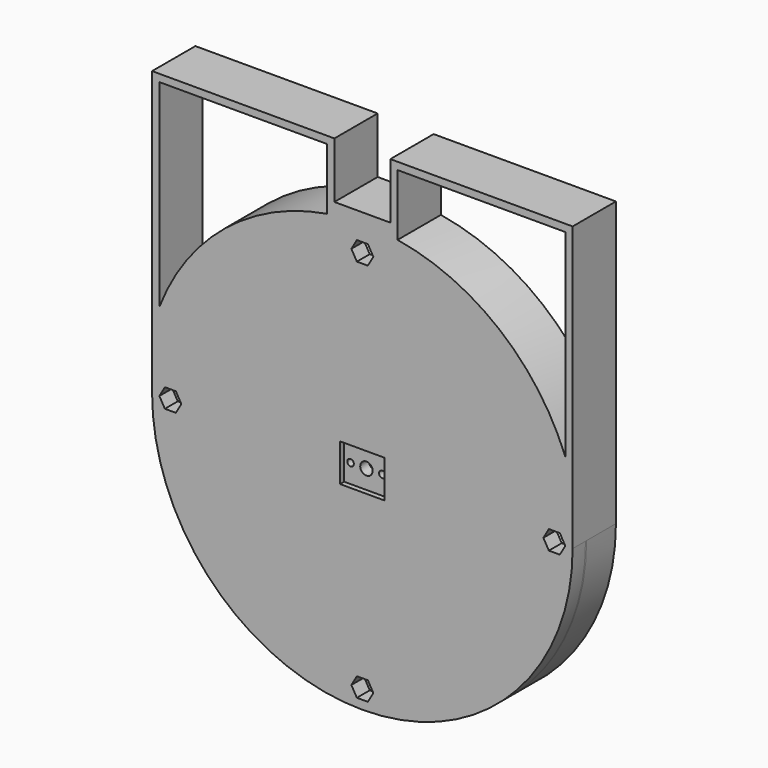
from build123d import *

# Parameters (mm, degrees)
SKETCH042_R     = 57.5
SKETCH042_R_2   = 50.2
PAD009_DEPTH    = 10
SKETCH043_R     = 57.5
SKETCH043_R_2   = 52.7
PAD010_DEPTH    = 10
SKETCH044_R     = 55.2
SKETCH044_R_2   = 45.630592
POCKET021_DEPTH = 10.001
SKETCH045_R     = 55.2
SKETCH045_R_2   = 52.7
PAD011_DEPTH    = 2.6
SKETCH046_R     = 57.5
SKETCH046_R_2   = 52.7
PAD012_DEPTH    = 0.4
SKETCH047_R     = 1.75
POCKET022_DEPTH = 5
SKETCH048_R     = 57.5
PAD013_DEPTH    = 4.4
SKETCH049_W     = 12.18
SKETCH049_H     = 10.29
POCKET023_DEPTH = 1.4
SKETCH050_R     = 1.7
POCKET024_DEPTH = 14.801
SKETCH051_R     = 0.9
POCKET025_DEPTH = 14.801
SKETCH052_R     = 1.55
POCKET026_DEPTH = 1
PAD014_DEPTH    = 14.8


with BuildPart() as part:
    # Sketch042 (on DatumPlane) → Pad009 (new body)
    with BuildSketch(Plane.XZ.offset(10)):
        Circle(SKETCH042_R)
        Circle(SKETCH042_R_2, mode=Mode.SUBTRACT)
    extrude(amount=-PAD009_DEPTH)

    # Sketch043 (on DatumPlane) → Pad010 (new body)
    with BuildSketch(Plane.XZ.offset(10)):
        Circle(SKETCH043_R)
        Circle(SKETCH043_R_2, mode=Mode.SUBTRACT)
    extrude(amount=-PAD010_DEPTH)

    # Sketch044 (on Face4 of PolarPattern004) → Pocket021 (cut, through all)
    with BuildSketch(Plane.XZ.offset(10)):
        Circle(SKETCH044_R)
        Circle(SKETCH044_R_2, mode=Mode.SUBTRACT)
    extrude(amount=-POCKET021_DEPTH, mode=Mode.SUBTRACT)

    # Sketch045 (on Face2 of Pocket021) → Pad011 (new body)
    with BuildSketch(Plane.XZ.offset(10)):
        Circle(SKETCH045_R)
        Circle(SKETCH045_R_2, mode=Mode.SUBTRACT)
    extrude(amount=-PAD011_DEPTH)

    # Sketch046 (on Face6 of Pad011) → Pad012 (new body)
    with BuildSketch(Plane.XZ.offset(10)):
        Circle(SKETCH046_R)
        Circle(SKETCH046_R_2, mode=Mode.SUBTRACT)
    extrude(amount=PAD012_DEPTH)

    # Sketch047 (on Face5 of Pad012) → Pocket022 (cut)
    with BuildSketch(Plane.XZ.offset(10.4)):
        with Locations((0, -52.5)):
            Circle(SKETCH047_R)
        with Locations((-52.5, 0)):
            Circle(SKETCH047_R)
        with Locations((0, 52.5)):
            Circle(SKETCH047_R)
        with Locations((52.5, 0)):
            Circle(SKETCH047_R)
    extrude(amount=-POCKET022_DEPTH, mode=Mode.SUBTRACT)

    # Sketch048 (on Face4 of Pocket022) → Pad013 (new body)
    with BuildSketch(Plane.XZ.offset(10.4)):
        Circle(SKETCH048_R)
        Polygon((3, -52.5), (1.5, -49.901924), (-1.5, -49.901924), (-3, -52.5), (-1.5, -55.098076), (1.5, -55.098076), align=None, mode=Mode.SUBTRACT)
        Polygon((3, 52.5), (1.5, 55.098076), (-1.5, 55.098076), (-3, 52.5), (-1.5, 49.901924), (1.5, 49.901924), align=None, mode=Mode.SUBTRACT)
        Polygon((-49.5, 0), (-51, 2.598076), (-54, 2.598076), (-55.5, 0), (-54, -2.598076), (-51, -2.598076), align=None, mode=Mode.SUBTRACT)
        Polygon((55.5, 0), (54, 2.598076), (51, 2.598076), (49.5, 0), (51, -2.598076), (54, -2.598076), align=None, mode=Mode.SUBTRACT)
    extrude(amount=PAD013_DEPTH)

    # Sketch049 (on Face13 of Pad013) → Pocket023 (cut)
    with BuildSketch(Plane.XZ.offset(14.8)):
        Rectangle(SKETCH049_W, SKETCH049_H)
    extrude(amount=-POCKET023_DEPTH, mode=Mode.SUBTRACT)

    # Sketch050 (on Face4 of Pocket023) → Pocket024 (cut, through all)
    with BuildSketch(Plane.XZ.offset(14.8)):
        Circle(SKETCH050_R)
    extrude(amount=-POCKET024_DEPTH, mode=Mode.SUBTRACT)

    # Sketch051 (on Face4 of Pocket024) → Pocket025 (cut, through all)
    with BuildSketch(Plane.XZ.offset(14.8)):
        with Locations((-4.35, 0)):
            Circle(SKETCH051_R)
        with Locations((4.35, 0)):
            Circle(SKETCH051_R)
    extrude(amount=-POCKET025_DEPTH, mode=Mode.SUBTRACT)

    # Sketch052 (on Face42 of Pocket025) → Pocket026 (cut)
    with BuildSketch(Plane(origin=(0, -10.4, 0), x_dir=(1, 0, 0), z_dir=(0, 1, 0))):
        with Locations((-4.35, 0)):
            Circle(SKETCH052_R)
        with Locations((4.35, 0)):
            Circle(SKETCH052_R)
    extrude(amount=-POCKET026_DEPTH, mode=Mode.SUBTRACT)

    # Sketch053 (on Face1 of Pocket026) → Pad014 (new body)
    with BuildSketch(Plane(origin=(0, 0, 0), x_dir=(1, 0, 0), z_dir=(0, 1, 0))):
        with BuildLine():
            Line((-7.65, -62.26), (7.65, -62.26))
            Line((7.65, -62.26), (7.65, -77.56))
            Line((7.65, -77.56), (57.5, -77.56))
            Line((57.5, 0), (57.5, -77.56))
            ThreePointArc((-57.5, 0), (0, -57.5), (57.5, 0))
            Line((-57.5, 0), (-57.5, -77.56))
            Line((-57.5, -77.56), (-7.65, -77.56))
            Line((-7.65, -62.26), (-7.65, -77.56))
        make_face()
        with BuildLine():
            Line((9.640661, -58.760865), (9.65, -75.56))
            Line((9.65, -75.56), (55.5, -75.56))
            Line((55.500076, -21.447651), (55.5, -75.56))
            ThreePointArc((9.640661, -58.760865), (37.533805, -46.204517), (55.500076, -21.447651))
        make_face(mode=Mode.SUBTRACT)
        with BuildLine():
            Line((-9.65, -75.56), (-55.5, -75.56))
            Line((-55.500076, -21.447651), (-55.5, -75.56))
            ThreePointArc((-55.500076, -21.447651), (-37.533805, -46.204517), (-9.640661, -58.760865))
            Line((-9.640661, -58.760865), (-9.65, -75.56))
        make_face(mode=Mode.SUBTRACT)
    extrude(amount=-PAD014_DEPTH)


solid = part.part
